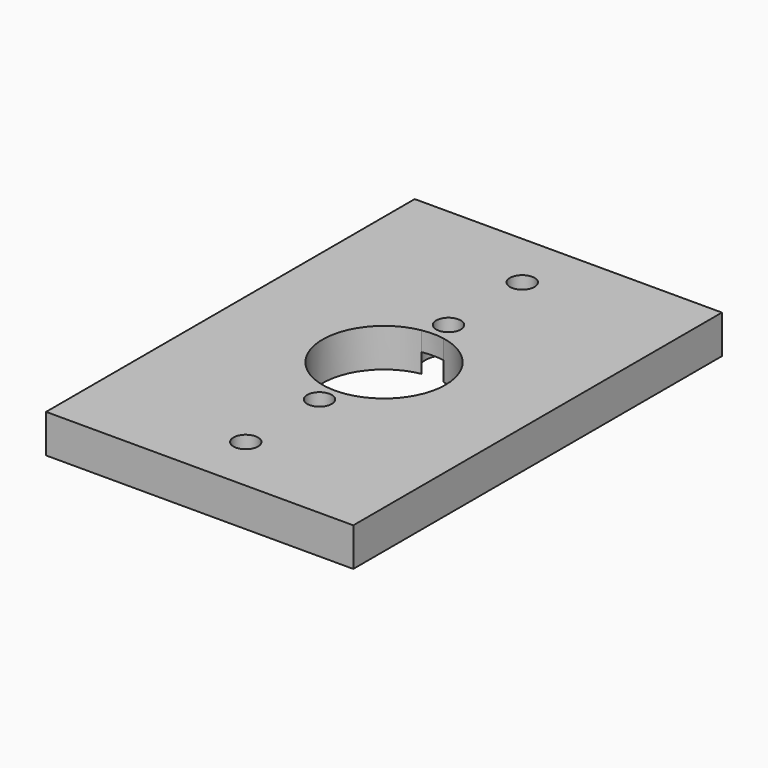
from build123d import *

# Parameters (mm, degrees)
F0_W     = 40
F0_H     = 60
F0_R     = 1.6
F1_DEPTH = 5
F2_DEPTH = 2.5


with BuildPart() as f1:
    # F0 (on Top) → F1 (new body)
    with BuildSketch(Plane.XY):
        Rectangle(F0_W, F0_H)
        Polygon((2.85, -20.854552), (2.85, -24.145448), (0, -25.790897), (-2.85, -24.145448), (-2.85, -20.854552), (0, -19.209103), align=None, mode=Mode.SUBTRACT)
        with BuildLine():
            ThreePointArc((1.441558, 7.869048), (6.145424, 5.121891), (8, 0))
            ThreePointArc((8, 0), (6.145424, -5.121891), (1.441558, -7.869048))
            ThreePointArc((1.441558, -7.869048), (2.58115, -8.971058), (3, -10.5))
            ThreePointArc((3, -10.5), (-1.528942, -13.08115), (-1.441558, -7.869048))
            ThreePointArc((-1.441558, -7.869048), (-8, 0), (-1.441558, 7.869048))
            ThreePointArc((-1.441558, 7.869048), (-1.528942, 13.08115), (3, 10.5))
            ThreePointArc((3, 10.5), (2.58115, 8.971058), (1.441558, 7.869048))
        make_face(mode=Mode.SUBTRACT)
        Polygon((2.85, 24.145448), (2.85, 20.854552), (0, 19.209103), (-2.85, 20.854552), (-2.85, 24.145448), (0, 25.790897), align=None, mode=Mode.SUBTRACT)
        Polygon((0, -25.790897), (2.85, -24.145448), (2.85, -20.854552), (0, -19.209103), (-2.85, -20.854552), (-2.85, -24.145448), align=None)
        with Locations((0, -22.5)):
            Circle(F0_R, mode=Mode.SUBTRACT)
        Polygon((0, 19.209103), (2.85, 20.854552), (2.85, 24.145448), (0, 25.790897), (-2.85, 24.145448), (-2.85, 20.854552), align=None)
        with Locations((0, 22.5)):
            Circle(F0_R, mode=Mode.SUBTRACT)
        with BuildLine():
            ThreePointArc((-1.441558, 7.869048), (0, 8), (1.441558, 7.869048))
            ThreePointArc((1.441558, 7.869048), (2.58115, 8.971058), (3, 10.5))
            ThreePointArc((3, 10.5), (-1.528942, 13.08115), (-1.441558, 7.869048))
        make_face()
        with Locations((0, 10.5)):
            Circle(F0_R, mode=Mode.SUBTRACT)
        with BuildLine():
            ThreePointArc((3, -10.5), (2.58115, -8.971058), (1.441558, -7.869048))
            ThreePointArc((1.441558, -7.869048), (0, -8), (-1.441558, -7.869048))
            ThreePointArc((-1.441558, -7.869048), (-1.528942, -13.08115), (3, -10.5))
        make_face()
        with Locations((0, -10.5)):
            Circle(F0_R, mode=Mode.SUBTRACT)
    extrude(amount=F1_DEPTH)

    # F0 (on Top) → F2 (cut)
    with BuildSketch(Plane.XY):
        Polygon((0, 19.209103), (2.85, 20.854552), (2.85, 24.145448), (0, 25.790897), (-2.85, 24.145448), (-2.85, 20.854552), align=None)
        with Locations((0, 22.5)):
            Circle(F0_R, mode=Mode.SUBTRACT)
        Polygon((0, -25.790897), (2.85, -24.145448), (2.85, -20.854552), (0, -19.209103), (-2.85, -20.854552), (-2.85, -24.145448), align=None)
        with Locations((0, -22.5)):
            Circle(F0_R, mode=Mode.SUBTRACT)
        with BuildLine():
            ThreePointArc((-1.441558, 7.869048), (0, 8), (1.441558, 7.869048))
            ThreePointArc((1.441558, 7.869048), (2.58115, 8.971058), (3, 10.5))
            ThreePointArc((3, 10.5), (-1.528942, 13.08115), (-1.441558, 7.869048))
        make_face()
        with Locations((0, 10.5)):
            Circle(F0_R, mode=Mode.SUBTRACT)
        with BuildLine():
            ThreePointArc((3, -10.5), (2.58115, -8.971058), (1.441558, -7.869048))
            ThreePointArc((1.441558, -7.869048), (0, -8), (-1.441558, -7.869048))
            ThreePointArc((-1.441558, -7.869048), (-1.528942, -13.08115), (3, -10.5))
        make_face()
        with Locations((0, -10.5)):
            Circle(F0_R, mode=Mode.SUBTRACT)
    extrude(amount=F2_DEPTH, mode=Mode.SUBTRACT)


solid = f1.part
